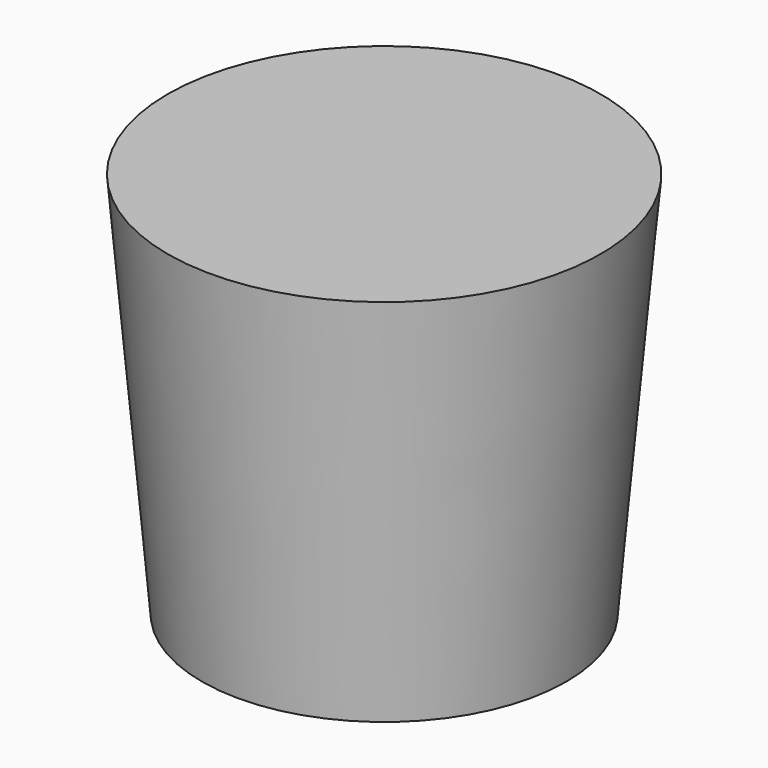
from build123d import *


with BuildPart() as f1:
    # F0 (on Front) → F1 (revolve)
    with BuildSketch(Plane.XZ):
        Polygon((0, -17), (0, 0), (-9.5, 0), (-8, -17), align=None)
    revolve(axis=Axis((0, 0, -8.5), (0, 0, -1)))


with BuildPart() as f2_1:
    # F2: copy of F1
    add(f1.part)


solid = Compound([f1.part, f2_1.part])
